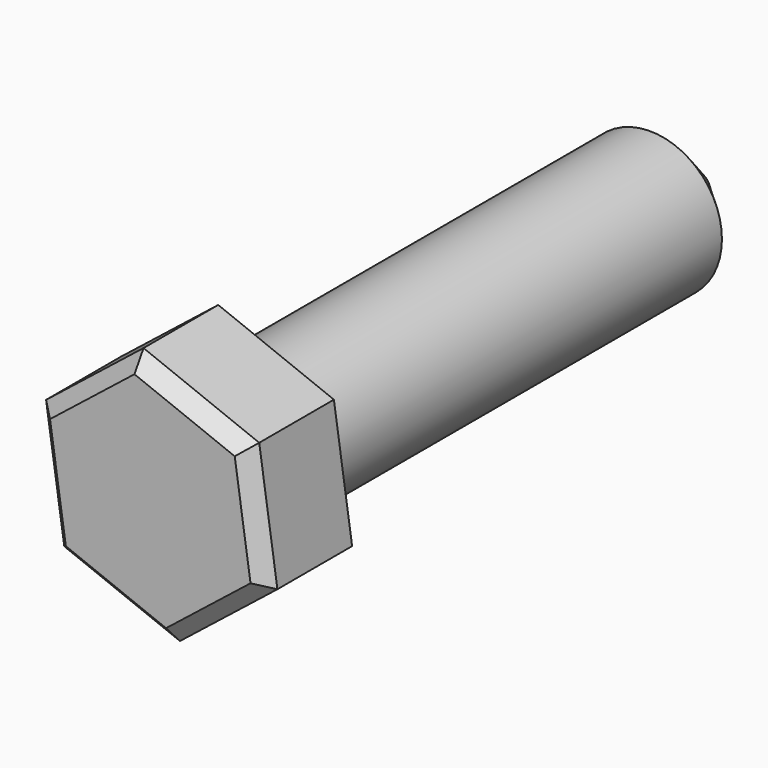
from build123d import *

# Parameters (mm, degrees)
F1_DEPTH = 9.525
F3_R     = 6.35
F4_DEPTH = 50.8
F5_SIZE  = 5.08
F6_SIZE  = 1.27


with BuildPart() as f1:
    # F0 (on Front) → F1 (new body)
    with BuildSketch(Plane.XZ):
        Polygon((-1.610126, 10.880027), (-10.227443, 4.045603), (-8.617317, -6.834424), (1.610126, -10.880027), (10.227443, -4.045603), (8.617317, 6.834424), align=None)
    extrude(amount=F1_DEPTH)

    # F3 (on offset) → F4 (join)
    with BuildSketch(Plane(origin=(0, 0, 0), x_dir=(1, 0, 0), z_dir=(0, 1, 0))):
        Circle(F3_R)
    extrude(amount=F4_DEPTH)

    # F5
    f5_edges = [f1.edges().sort_by_distance(p)[0] for p in [
        (-6.35, 50.8, 0),
    ]]
    chamfer(f5_edges, length=F5_SIZE)

    # F6
    f6_edges = [f1.edges().sort_by_distance(p)[0] for p in [
        (-5.918785, -9.525, 7.462815),
        (3.503595, -9.525, 8.857226),
        (9.42238, -9.525, 1.39441),
        (5.918785, -9.525, -7.462815),
        (-3.503595, -9.525, -8.857226),
        (-9.42238, -9.525, -1.39441),
    ]]
    chamfer(f6_edges, length=F6_SIZE)


solid = f1.part
